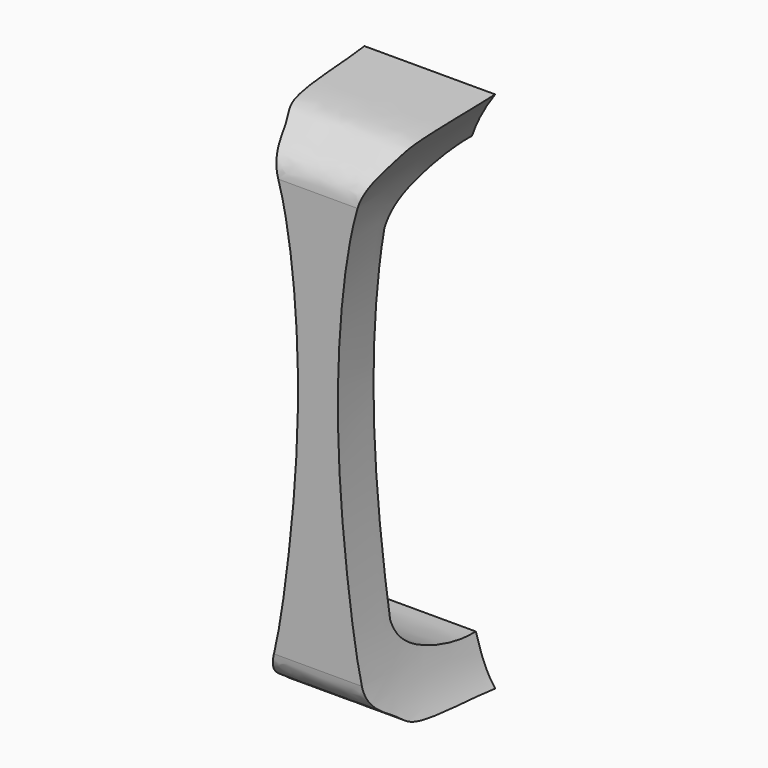
from build123d import *

# Parameters (mm, degrees)
F1_DEPTH = 38.862
F3_DEPTH = 73.66


with BuildPart() as f1:
    # F0 (on Front) → F1 (new body)
    with BuildSketch(Plane.XZ):
        with BuildLine():
            Line((25.4, 0), (0, 0))
            add(Edge.make_bspline(
                [(0, 0), (1.8758565376, -2.7173788489), (6.3326994954, -9.8849555718), (10.0240112131, -41.9053530838), (7.1672895718, -76.3104056405), (3.5716651335, -97.0976373299), (0, -101.6)],
                knots=[0, 0, 0, 0, 0.1648810077, 0.4447179885, 0.7527685032, 1, 1, 1, 1], degree=3))
            Line((0, -101.6), (25.4, -101.6))
            add(Edge.make_bspline(
                [(25.4, 0), (23.5241434624, -2.7173788489), (19.0673005046, -9.8849555718), (15.3759887869, -41.9053530838), (18.2327104282, -76.3104056405), (21.8283348665, -97.0976373299), (25.4, -101.6)],
                knots=[0, 0, 0, 0, 0.1648810077, 0.4447179885, 0.7527685032, 1, 1, 1, 1], degree=3))
        make_face()
    extrude(amount=F1_DEPTH)

    # F2 (on Right) → F3 (intersect)
    with BuildSketch(Plane.YZ):
        with BuildLine():
            Line((0, -8.5461596027), (0, 0))
            add(Edge.make_bspline(
                [(0, 0), (-6.0078482562, -0.5225956659), (-19.0988494119, -0.4686281754), (-21.2416504521, -3.6691217007), (-27.1625785868, -6.2973503411), (-27.1625785868, -10.0796466233)],
                knots=[0, 0, 0, 0, 0.4694098895, 0.6823162428, 1, 1, 1, 1], degree=3))
            Line((-27.1625785868, -10.0796466233), (-27.1625785868, -91.5203533767))
            add(Edge.make_bspline(
                [(0, -101.6), (-6.0078482562, -101.0774043341), (-19.0988494119, -101.1313718246), (-21.2416504521, -97.9308782993), (-27.1625785868, -95.3026496589), (-27.1625785868, -91.5203533767)],
                knots=[0, 0, 0, 0, 0.4694098895, 0.6823162428, 1, 1, 1, 1], degree=3))
            Line((0, -101.6), (0, -93.0538403973))
            add(Edge.make_bspline(
                [(-18.5162266716, -84.0879895896), (-17.7963500197, -87.6196612106), (-12.0013107327, -91.4648156137), (-3.9337064895, -93.1708901859), (0, -93.0538403973)],
                knots=[0, 0, 0, 0, 0.4689275246, 1, 1, 1, 1], degree=3))
            Line((-18.5162266716, -84.0879895896), (-18.5162266716, -17.5120104104))
            add(Edge.make_bspline(
                [(-18.5162266716, -17.5120104104), (-17.7963500197, -13.9803387894), (-12.0013107327, -10.1351843863), (-3.9337064895, -8.4291098141), (0, -8.5461596027)],
                knots=[0, 0, 0, 0, 0.4689275246, 1, 1, 1, 1], degree=3))
        make_face()
    extrude(amount=F3_DEPTH, mode=Mode.INTERSECT)


solid = f1.part
